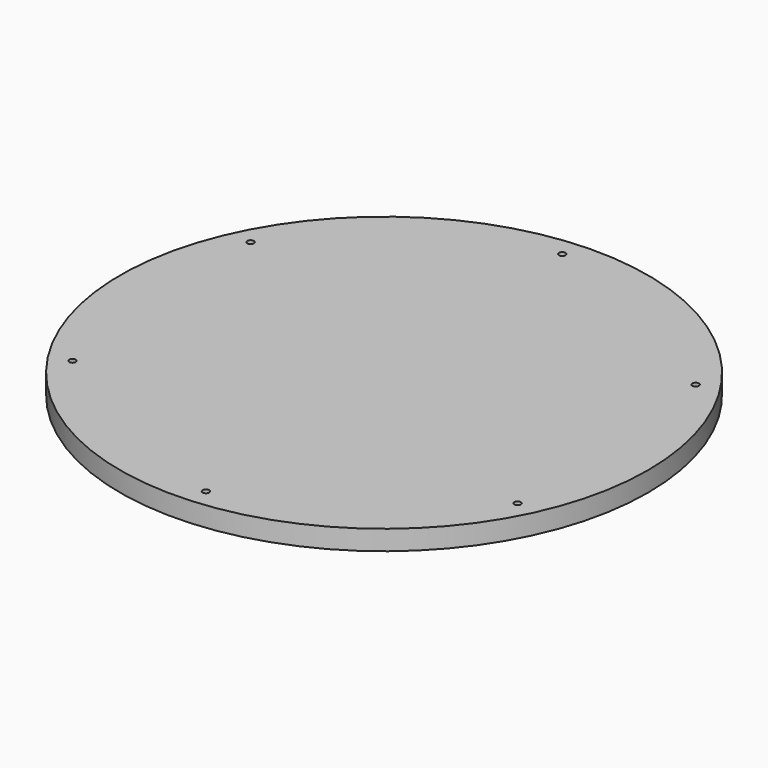
from build123d import *

# Parameters (mm, degrees)
F0_R     = 254
F1_DEPTH = 19.05


with BuildPart() as f1:
    # F0 (on Top) → F1 (new body)
    with BuildSketch(Plane.XY):
        Circle(F0_R)
        with BuildLine():
            ThreePointArc((196.7011125508, 128.4919251209), (225.1848450649, 67.0319927579), (234.95, 0))
            ThreePointArc((234.95, 0), (229.2479499847, -51.4478369596), (212.4185683948, -100.3984775836))
            ThreePointArc((212.4185683948, -100.3984775836), (213.7303800146, -101.5698688542), (214.2174677682, -103.259766116))
            ThreePointArc((214.2174677682, -103.259766116), (212.7141648851, -105.9590352298), (209.6278276113, -106.1021978612))
            ThreePointArc((209.6278276113, -106.1021978612), (131.1382553066, -194.9468145294), (19.2616521087, -234.1591152572))
            ThreePointArc((19.2616521087, -234.1591152572), (19.2684021583, -234.2784835874), (19.2706532388, -234.3980214226))
            ThreePointArc((19.2706532388, -234.3980214226), (16.1937508526, -237.5715056053), (12.9267150604, -234.5941229821))
            ThreePointArc((12.9267150604, -234.5941229821), (-103.259766116, -211.0424677682), (-193.1569162861, -133.7606376736))
            ThreePointArc((-193.1569162861, -133.7606376736), (-197.5812309419, -132.9103938918), (-196.7011125508, -128.4919251209))
            ThreePointArc((-196.7011125508, -128.4919251209), (-234.3980214226, -16.0956532388), (-212.4185683948, 100.3984775836))
            ThreePointArc((-212.4185683948, 100.3984775836), (-213.8943930083, 104.6551683608), (-209.6278276113, 106.1021978612))
            ThreePointArc((-209.6278276113, 106.1021978612), (-131.1382553066, 194.9468145294), (-19.2616521087, 234.1591152572))
            ThreePointArc((-19.2616521087, 234.1591152572), (-16.3131620664, 237.5655622526), (-12.9267150604, 234.5941229821))
            ThreePointArc((-12.9267150604, 234.5941229821), (103.259766116, 211.0424677682), (193.1569162861, 133.7606376736))
            ThreePointArc((193.1569162861, 133.7606376736), (196.4296661871, 133.9457053883), (198.1218145294, 131.1382553066))
            ThreePointArc((198.1218145294, 131.1382553066), (197.744181257, 129.6364682408), (196.7011125508, 128.4919251209))
        make_face(mode=Mode.SUBTRACT)
        with BuildLine():
            ThreePointArc((212.4185683948, -100.3984775836), (229.2479499847, -51.4478369596), (234.95, 0))
            ThreePointArc((234.95, 0), (225.1848450649, 67.0319927579), (196.7011125508, 128.4919251209))
            ThreePointArc((196.7011125508, 128.4919251209), (192.3123981168, 129.3661167214), (193.1569162861, 133.7606376736))
            ThreePointArc((193.1569162861, 133.7606376736), (103.259766116, 211.0424677682), (-12.9267150604, 234.5941229821))
            ThreePointArc((-12.9267150604, 234.5941229821), (-12.9221690561, 234.4961190364), (-12.9206532388, 234.3980214226))
            ThreePointArc((-12.9206532388, 234.3980214226), (-15.9761154036, 231.2252725031), (-19.2616521087, 234.1591152572))
            ThreePointArc((-19.2616521087, 234.1591152572), (-131.1382553066, 194.9468145294), (-209.6278276113, 106.1021978612))
            ThreePointArc((-209.6278276113, 106.1021978612), (-208.3431986543, 104.931463233), (-207.8674677682, 103.259766116))
            ThreePointArc((-207.8674677682, 103.259766116), (-209.3525705064, 100.5718538695), (-212.4185683948, 100.3984775836))
            ThreePointArc((-212.4185683948, 100.3984775836), (-234.3980214226, -16.0956532388), (-196.7011125508, -128.4919251209))
            ThreePointArc((-196.7011125508, -128.4919251209), (-193.4450274636, -128.3408885789), (-191.7718145294, -131.1382553066))
            ThreePointArc((-191.7718145294, -131.1382553066), (-192.1393644477, -132.6211069643), (-193.1569162861, -133.7606376736))
            ThreePointArc((-193.1569162861, -133.7606376736), (-103.259766116, -211.0424677682), (12.9267150604, -234.5941229821))
            ThreePointArc((12.9267150604, -234.5941229821), (15.8781444113, -231.2304805925), (19.2616521087, -234.1591152572))
            ThreePointArc((19.2616521087, -234.1591152572), (131.1382553066, -194.9468145294), (209.6278276113, -106.1021978612))
            ThreePointArc((209.6278276113, -106.1021978612), (208.190542528, -101.8643638712), (212.4185683948, -100.3984775836))
        make_face()
    extrude(amount=F1_DEPTH)


solid = f1.part
